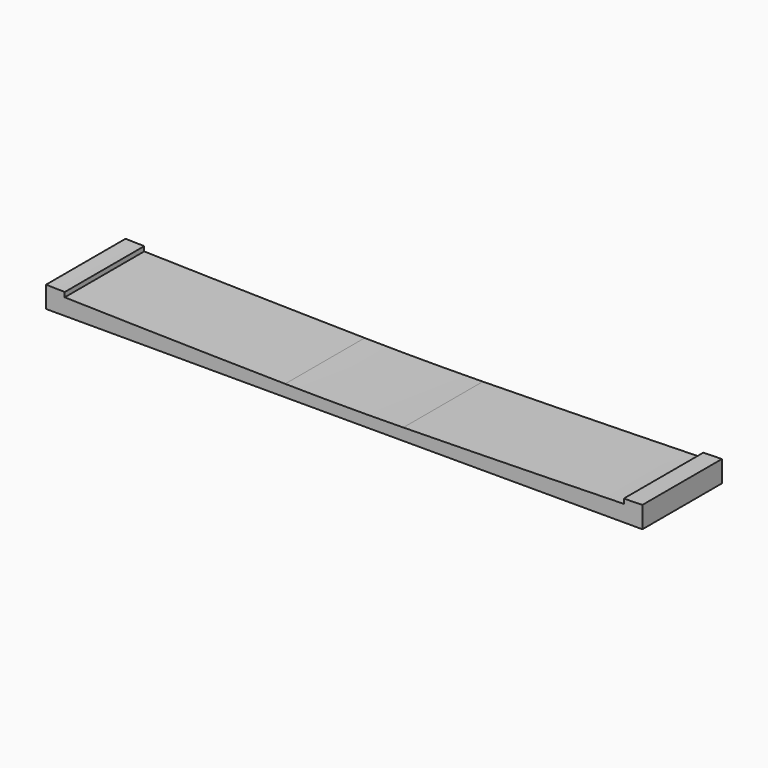
from build123d import *

# Parameters (mm, degrees)
F1_DEPTH = 406.4


with BuildPart() as f1:
    # F0 (on Front) → F1 (new body)
    with BuildSketch(Plane.XZ):
        with BuildLine():
            Line((0, 87.8156221902), (0, 0))
            Line((0, 0), (2438.4, 0))
            Line((2438.4, 0), (2438.4, 87.8156221902))
            ThreePointArc((2438.4, 87.8156221902), (2438.1558859018, 87.8093628936), (2437.9117717883, 87.8031041933))
            ThreePointArc((2437.9117717883, 87.8031041934), (2400.05606697, 86.8397636055), (2362.2, 85.8907610012))
            Line((2362.2, 85.8907610012), (2362.2, 66.8348672982))
            ThreePointArc((2362.2, 66.8348672982), (1911.5185221995, 56.6408075561), (1460.7956693483, 48.478503706))
            ThreePointArc((1460.7956693483, 48.478503706), (1340.0016297921, 47.0421890062), (1219.2, 46.563407412))
            ThreePointArc((1219.2, 46.563407412), (1098.3983702079, 47.0421890062), (977.6043306517, 48.478503706))
            ThreePointArc((977.6043306517, 48.478503706), (526.8814778005, 56.6408075561), (76.2, 66.8348672982))
            Line((76.2, 66.8348672982), (76.2, 85.8907610012))
            ThreePointArc((76.2, 85.8907610012), (38.0998165635, 86.8459298467), (0, 87.8156221902))
        make_face()
    extrude(amount=-F1_DEPTH)


solid = f1.part
